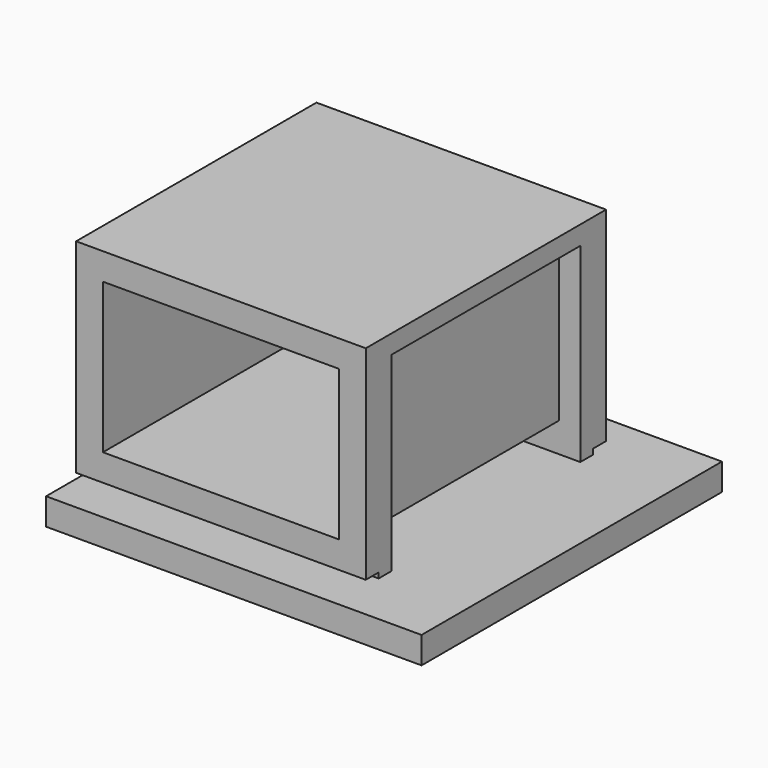
from build123d import *

# Parameters (mm, degrees)
F0_W      = 540
F0_H      = 380
F0_W_2    = 440
F0_H_2    = 280
F1_DEPTH  = 560
F2_W      = 490
F2_H      = 500
F3_DEPTH  = 10
F4_W      = 700
F4_H      = 700
F5_DEPTH  = 50
F6_W      = 440
F6_H      = 280
F7_DEPTH  = 6
F8_W      = 440
F8_H      = 55
F9_DEPTH  = 480
F10_W     = 440
F10_H     = 300
F11_DEPTH = 40


with BuildPart() as f1:
    # F0 (on Front) → F1 (new body)
    with BuildSketch(Plane.XZ):
        Rectangle(F0_W, F0_H)
        Rectangle(F0_W_2, F0_H_2, mode=Mode.SUBTRACT)
    extrude(amount=F1_DEPTH)

    # F2 (on face) → F3 (join)
    with BuildSketch(Plane(origin=(0, 0, -190), x_dir=(1, 0, 0), z_dir=(0, 0, -1))):
        with Locations((25, 280)):
            Rectangle(F2_W, F2_H)
    extrude(amount=F3_DEPTH)

    # F4 (on face) → F5 (join)
    with BuildSketch(Plane(origin=(0, 0, -200), x_dir=(1, 0, 0), z_dir=(0, 0, -1))):
        with Locations((80, 280)):
            Rectangle(F4_W, F4_H)
    extrude(amount=F5_DEPTH)

    # F6 (on face) → F7 (join)
    with BuildSketch(Plane(origin=(0, 0, 0), x_dir=(-1, 0, 0), z_dir=(0, 1, 0))):
        Rectangle(F6_W, F6_H)
    extrude(amount=-F7_DEPTH)

    # F8 (on face) → F9 (cut)
    with BuildSketch(Plane.YZ.offset(270)):
        with Locations((-280, -172.5)):
            Rectangle(F8_W, F8_H)
    extrude(amount=-F9_DEPTH, mode=Mode.SUBTRACT)

    # F10 (on face) → F11 (cut)
    with BuildSketch(Plane.YZ.offset(270)):
        with Locations((-280, 5)):
            Rectangle(F10_W, F10_H)
    extrude(amount=-F11_DEPTH, mode=Mode.SUBTRACT)


solid = f1.part
